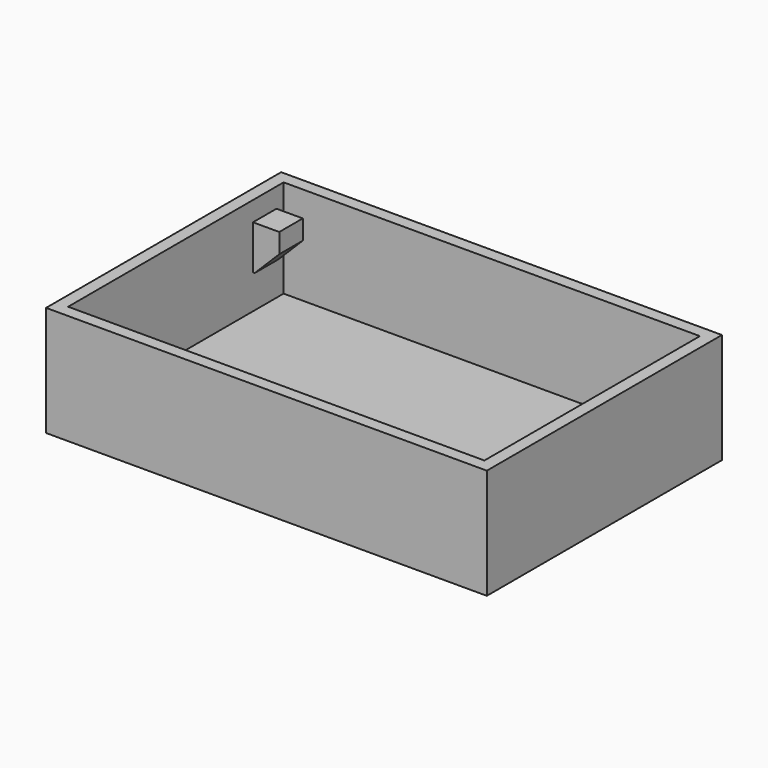
from build123d import *

# Parameters (mm, degrees)
F0_W     = 114.3
F0_H     = 76.2
F1_DEPTH = 3.175
F2_W     = 114.3
F2_H     = 76.2
F2_W_2   = 107.95
F2_H_2   = 69.85
F3_DEPTH = 25.4
F5_W     = 7.62
F5_H     = 7.62
F6_DEPTH = 11.43
F7_SIZE  = 6.35


with BuildPart() as f1:
    # F0 (on Top) → F1 (new body)
    with BuildSketch(Plane.XY):
        Rectangle(F0_W, F0_H)
    extrude(amount=F1_DEPTH)

    # F2 (on face) → F3 (join)
    with BuildSketch(Plane.XY.offset(3.175)):
        Rectangle(F2_W, F2_H)
        Rectangle(F2_W_2, F2_H_2, mode=Mode.SUBTRACT)
    extrude(amount=F3_DEPTH)

    # F5 (on offset) → F6 (join)
    with BuildSketch(Plane.XY.offset(23.495)):
        with Locations((-50.967861, 28.804621)):
            Rectangle(F5_W, F5_H)
    extrude(amount=-F6_DEPTH)

    # F7
    f7_edges = [f1.edges().sort_by_distance(p)[0] for p in [
        (-47.157861, 28.804621, 12.065),
    ]]
    chamfer(f7_edges, length=F7_SIZE)


solid = f1.part
